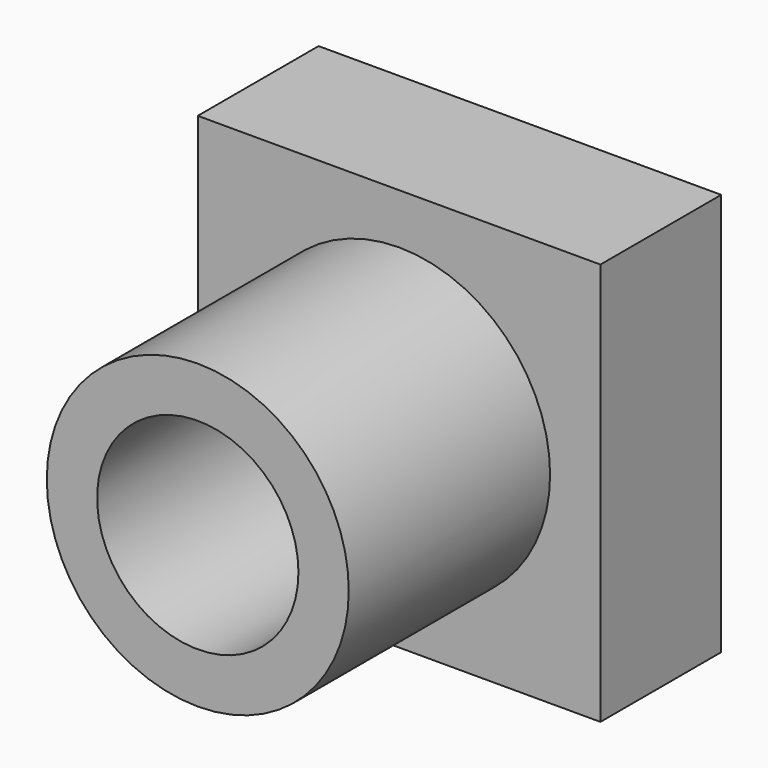
from build123d import *

# Parameters (mm, degrees)
F0_W     = 8
F0_H     = 8
F1_DEPTH = 3
F2_R     = 3
F2_R_2   = 2
F3_DEPTH = 5


with BuildPart() as f1:
    # F0 (on Front) → F1 (new body)
    with BuildSketch(Plane.XZ):
        Rectangle(F0_W, F0_H)
    extrude(amount=F1_DEPTH)

    # F2 (on face) → F3 (join)
    with BuildSketch(Plane.XZ.offset(3)):
        Circle(F2_R)
        Circle(F2_R_2, mode=Mode.SUBTRACT)
    extrude(amount=F3_DEPTH)


solid = f1.part
